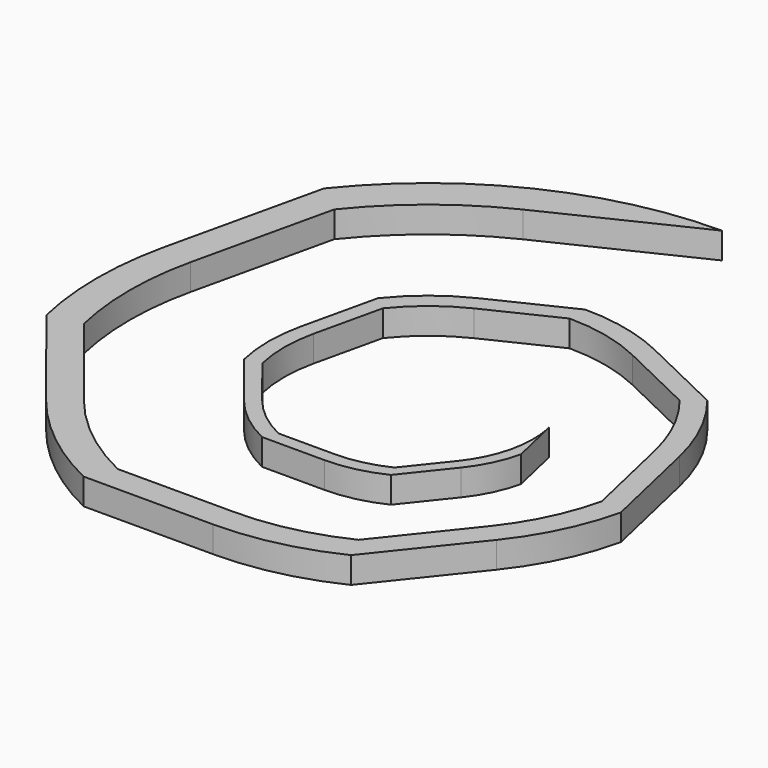
from build123d import *

# Parameters (mm, degrees)
F1_DEPTH = 6.35


with BuildPart() as f1:
    # F0 (on Top) → F1 (new body)
    with BuildSketch(Plane.XY):
        with BuildLine():
            Line((-34.7524098968, 72.1641214513), (0, 88.9))
            ThreePointArc((0, 88.9), (-38.5722644076, 80.0961323565), (-69.5048187914, 55.4282433852))
            Line((-69.5048187914, 55.4282433852), (-34.7524098968, 72.1641214513))
        make_face()
        with BuildLine():
            Line((-34.7524098968, 72.1641214513), (-69.5048187914, 55.4282433852))
            Line((-69.5048187914, 55.4282433852), (-78.0879549291, 17.8230668926))
            ThreePointArc((-78.0879549291, 17.8230668926), (-72.1641215337, 34.7524097258), (-62.6216779003, 49.9391216926))
            ThreePointArc((-62.6216779003, 49.9391216926), (-49.93912191, 62.6216777269), (-34.7524098968, 72.1641214513))
        make_face()
        with BuildLine():
            ThreePointArc((-62.6216779003, 49.9391216926), (-72.1641215337, 34.7524097258), (-78.0879549291, 17.8230668926))
            ThreePointArc((-78.0879549291, 17.8230668926), (-80.0961323565, 3.664e-07), (-78.0879550922, -17.8230661783))
            Line((-78.0879550922, -17.8230661783), (-70.3548165514, 16.0580275155))
            Line((-70.3548165514, 16.0580275155), (-62.6216779003, 49.9391216926))
        make_face()
        with BuildLine():
            Line((-70.3548165514, 16.0580275155), (-78.0879550922, -17.8230661783))
            Line((-78.0879550922, -17.8230661783), (-56.4201808238, -44.9935957162))
            ThreePointArc((-56.4201808238, -44.9935957162), (-65.0176265304, -31.3108399762), (-70.3548164962, -16.0580277572))
            ThreePointArc((-70.3548164962, -16.0580277572), (-72.1641216926, -1.24e-07), (-70.3548165514, 16.0580275155))
        make_face()
        with BuildLine():
            ThreePointArc((-70.3548164962, -16.0580277572), (-65.0176265304, -31.3108399762), (-56.4201808238, -44.9935957162))
            ThreePointArc((-56.4201808238, -44.9935957162), (-44.9935930451, -56.420182954), (-31.3108389501, -65.0176270246))
            Line((-31.3108389501, -65.0176270246), (-50.8328281182, -40.5378268956))
            Line((-50.8328281182, -40.5378268956), (-70.3548164962, -16.0580277572))
        make_face()
        with BuildLine():
            Line((-50.8328281182, -40.5378268956), (-31.3108389501, -65.0176270246))
            Line((-31.3108389501, -65.0176270246), (-2.882e-07, -65.0176270246))
            ThreePointArc((-2.882e-07, -65.0176270246), (-14.4677832296, -63.387499338), (-28.210091122, -58.578857814))
            ThreePointArc((-28.210091122, -58.578857814), (-40.5378276385, -50.8328275257), (-50.8328281182, -40.5378268956))
        make_face()
        with BuildLine():
            ThreePointArc((-28.210091122, -58.578857814), (-14.4677832296, -63.387499338), (-2.882e-07, -65.0176270246))
            ThreePointArc((-2.882e-07, -65.0176270246), (14.4677829486, -63.3874994022), (28.210091122, -58.578857814))
            Line((28.210091122, -58.578857814), (-1.292e-07, -58.578857814))
            Line((-1.292e-07, -58.578857814), (-28.210091122, -58.578857814))
        make_face()
        with BuildLine():
            Line((-1.292e-07, -58.578857814), (28.210091122, -58.578857814))
            Line((28.210091122, -58.578857814), (45.7987949156, -36.5233208659))
            ThreePointArc((45.7987949156, -36.5233208659), (36.5233202444, -45.7987954112), (25.4164138616, -52.7777272077))
            ThreePointArc((25.4164138616, -52.7777272077), (13.0350220879, -57.110163561), (-1.292e-07, -58.578857814))
        make_face()
        with BuildLine():
            ThreePointArc((25.4164138616, -52.7777272077), (36.5233202444, -45.7987954112), (45.7987949156, -36.5233208659))
            ThreePointArc((45.7987949156, -36.5233208659), (52.7777270927, -25.4164141003), (57.1101635466, -13.0350221509))
            Line((57.1101635466, -13.0350221509), (41.2632902553, -32.9063727341))
            Line((41.2632902553, -32.9063727341), (25.4164138616, -52.7777272077))
        make_face()
        with BuildLine():
            Line((41.2632902553, -32.9063727341), (57.1101635466, -13.0350221509))
            Line((57.1101635466, -13.0350221509), (51.4544792043, 11.7441499918))
            ThreePointArc((51.4544792043, 11.7441499918), (52.4458718884, 5.9092310056), (52.7777272077, 0))
            ThreePointArc((52.7777272077, 0), (52.4458719367, -5.9092305767), (51.4544793963, -11.7441491504))
            ThreePointArc((51.4544793963, -11.7441491504), (47.5510896725, -22.8993965022), (41.2632902553, -32.9063727341))
        make_face()
        with BuildLine():
            ThreePointArc((52.7777272077, 0), (52.4458718884, 5.9092310056), (51.4544792043, 11.7441499918))
            ThreePointArc((51.4544792043, 11.7441499918), (47.5510889456, 22.8993980118), (41.2632887041, 32.9063746793))
            Line((41.2632887041, 32.9063746793), (46.3588837564, 10.5811140517))
            Line((46.3588837564, 10.5811140517), (51.4544793963, -11.7441491504))
            ThreePointArc((51.4544793963, -11.7441491504), (52.4458719367, -5.9092305767), (52.7777272077, 0))
        make_face()
        with BuildLine():
            Line((46.3588837564, 10.5811140517), (41.2632887041, 32.9063746793))
            Line((41.2632887041, 32.9063746793), (20.6316449307, 42.8420506649))
            ThreePointArc((20.6316449307, 42.8420506649), (29.6476193926, 37.1769383095), (37.1769385097, 29.6476191416))
            ThreePointArc((37.1769385097, 29.6476191416), (42.8420506571, 20.6316449469), (46.3588837564, 10.5811140517))
        make_face()
        with BuildLine():
            ThreePointArc((37.1769385097, 29.6476191416), (29.6476193926, 37.1769383095), (20.6316449307, 42.8420506649))
            ThreePointArc((20.6316449307, 42.8420506649), (10.5811130775, 46.3588839788), (0, 47.5510891328))
            Line((0, 47.5510891328), (18.5884698926, 38.5993538301))
            Line((18.5884698926, 38.5993538301), (37.1769385097, 29.6476191416))
        make_face()
        with BuildLine():
            Line((18.5884698926, 38.5993538301), (0, 47.5510891328))
            Line((0, 47.5510891328), (-18.5884682778, 38.5993546077))
            ThreePointArc((-18.5884682778, 38.5993546077), (-9.5332526599, 41.7679114006), (0, 42.8420509435))
            ThreePointArc((0, 42.8420509435), (9.5332535336, 41.7679112012), (18.5884698926, 38.5993538301))
        make_face()
        with BuildLine():
            ThreePointArc((0, 42.8420509435), (-9.5332526599, 41.7679114006), (-18.5884682778, 38.5993546077))
            ThreePointArc((-18.5884682778, 38.5993546077), (-26.7115814301, 33.4952645392), (-33.4952642011, 26.711581854))
            Line((-33.4952642011, 26.711581854), (-16.7476318885, 34.7768165009))
            Line((-16.7476318885, 34.7768165009), (0, 42.8420509435))
        make_face()
        with BuildLine():
            Line((-16.7476318885, 34.7768165009), (-33.4952642011, 26.711581854))
            Line((-33.4952642011, 26.711581854), (-37.6315877758, 8.5891641784))
            ThreePointArc((-37.6315877758, 8.5891641784), (-34.7768164331, 16.7476320293), (-30.1781902674, 24.0663036629))
            ThreePointArc((-30.1781902674, 24.0663036629), (-24.0663035709, 30.1781903408), (-16.7476318885, 34.7768165009))
        make_face()
        with BuildLine():
            ThreePointArc((-30.1781902674, 24.0663036629), (-34.7768164331, 16.7476320293), (-37.6315877758, 8.5891641784))
            ThreePointArc((-37.6315877758, 8.5891641784), (-38.5993541372, -7.91e-08), (-37.6315877405, -8.5891643327))
            Line((-37.6315877405, -8.5891643327), (-33.904888825, 7.7385704492))
            Line((-33.904888825, 7.7385704492), (-30.1781902674, 24.0663036629))
        make_face()
        with BuildLine():
            Line((-33.904888825, 7.7385704492), (-37.6315877405, -8.5891643327))
            Line((-37.6315877405, -8.5891643327), (-27.1896101144, -21.6829901227))
            ThreePointArc((-27.1896101144, -21.6829901227), (-31.3328289675, -15.0890949937), (-33.904889004, -7.7385696651))
            ThreePointArc((-33.904889004, -7.7385696651), (-34.7768163988, 4.022e-07), (-33.904888825, 7.7385704492))
        make_face()
        with BuildLine():
            ThreePointArc((-33.904889004, -7.7385696651), (-31.3328289675, -15.0890949937), (-27.1896101144, -21.6829901227))
            ThreePointArc((-27.1896101144, -21.6829901227), (-21.6829904873, -27.1896098236), (-15.0890951337, -31.3328289))
            Line((-15.0890951337, -31.3328289), (-24.4969922973, -19.5356989961))
            Line((-24.4969922973, -19.5356989961), (-33.904889004, -7.7385696651))
        make_face()
        with BuildLine():
            Line((-24.4969922973, -19.5356989961), (-15.0890951337, -31.3328289))
            Line((-15.0890951337, -31.3328289), (0, -31.3328289))
            ThreePointArc((0, -31.3328289), (-6.9722103503, -30.5472494623), (-13.5948049603, -28.2299033822))
            ThreePointArc((-13.5948049603, -28.2299033822), (-19.5356994258, -24.4969919546), (-24.4969922973, -19.5356989961))
        make_face()
        with BuildLine():
            ThreePointArc((-13.5948049603, -28.2299033822), (-6.9722103503, -30.5472494623), (0, -31.3328289))
            ThreePointArc((0, -31.3328289), (6.9722103503, -30.5472494623), (13.5948049603, -28.2299033822))
            Line((13.5948049603, -28.2299033822), (0, -28.2299033822))
            Line((0, -28.2299033822), (-13.5948049603, -28.2299033822))
        make_face()
        with BuildLine():
            Line((0, -28.2299033822), (13.5948049603, -28.2299033822))
            Line((13.5948049603, -28.2299033822), (22.0710272231, -17.6010568514))
            ThreePointArc((22.0710272231, -17.6010568514), (17.6010568737, -22.0710272053), (12.2484960344, -25.4342640913))
            ThreePointArc((12.2484960344, -25.4342640913), (6.2817444661, -27.5221207655), (0, -28.2299033822))
        make_face()
        with BuildLine():
            ThreePointArc((12.2484960344, -25.4342640913), (17.6010568737, -22.0710272053), (22.0710272231, -17.6010568514))
            ThreePointArc((22.0710272231, -17.6010568514), (25.4342640954, -12.2484960258), (27.5221207655, -6.2817444661))
            Line((27.5221207655, -6.2817444661), (19.8853082378, -15.8580044821))
            Line((19.8853082378, -15.8580044821), (12.2484960344, -25.4342640913))
        make_face()
        with BuildLine():
            Line((19.8853082378, -15.8580044821), (27.5221207655, -6.2817444661))
            Line((27.5221207655, -6.2817444661), (24.7965739757, 5.6596562558))
            ThreePointArc((24.7965739757, 5.6596562558), (25.274338774, 2.8477340825), (25.4342640913, 0))
            ThreePointArc((25.4342640913, 0), (24.0069778515, -8.4004050084), (19.8853082378, -15.8580044821))
        make_face()
    extrude(amount=F1_DEPTH)


solid = f1.part
